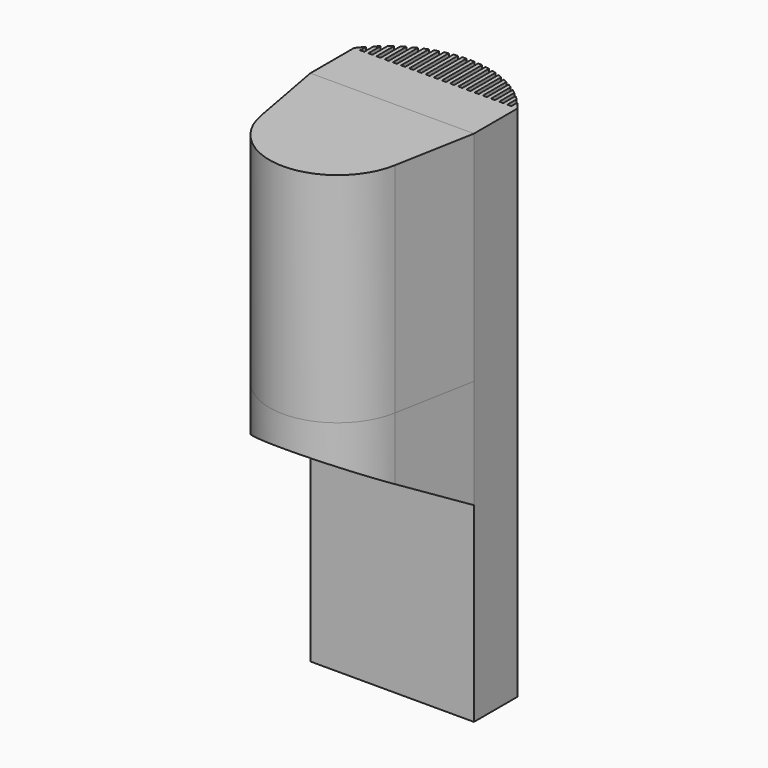
from build123d import *

# Parameters (mm, degrees)
F1_DEPTH = 482.6
F2_W     = 3.81
F2_H     = 38.1
F3_DEPTH = 482.6
F5_DEPTH = 304.8
F6_W     = 138.08032
F6_H     = 203.2
F7_DEPTH = 254
F9_DEPTH = 203.2


with BuildPart() as f1:
    # F0 (on Top) → F1 (new body)
    with BuildSketch(Plane.XY):
        with BuildLine():
            ThreePointArc((76.2, 50.8), (0, 88.9), (-76.2, 50.8))
            Line((-76.2, 50.8), (-76.2, 0))
            Line((-76.2, 0), (76.2, 0))
            Line((76.2, 0), (76.2, 50.8))
        make_face()
    extrude(amount=F1_DEPTH)

    # F2 (on face) → F3 (cut)
    with BuildSketch(Plane.XY.offset(482.6)):
        with Locations((0, 69.85)):
            Rectangle(F2_W, F2_H)
        with Locations((7.62, 69.85)):
            Rectangle(F2_W, F2_H)
        with Locations((15.24, 69.85)):
            Rectangle(F2_W, F2_H)
        with Locations((22.86, 69.85)):
            Rectangle(F2_W, F2_H)
        with Locations((30.48, 69.85)):
            Rectangle(F2_W, F2_H)
        with Locations((38.1, 69.85)):
            Rectangle(F2_W, F2_H)
        with Locations((45.72, 69.85)):
            Rectangle(F2_W, F2_H)
        with Locations((53.34, 69.85)):
            Rectangle(F2_W, F2_H)
        with Locations((60.96, 69.85)):
            Rectangle(F2_W, F2_H)
        with Locations((68.58, 69.85)):
            Rectangle(F2_W, F2_H)
        with Locations((-7.62, 69.85)):
            Rectangle(F2_W, F2_H)
        with Locations((-15.24, 69.85)):
            Rectangle(F2_W, F2_H)
        with Locations((-22.86, 69.85)):
            Rectangle(F2_W, F2_H)
        with Locations((-30.48, 69.85)):
            Rectangle(F2_W, F2_H)
        with Locations((-38.1, 69.85)):
            Rectangle(F2_W, F2_H)
        with Locations((-45.72, 69.85)):
            Rectangle(F2_W, F2_H)
        with Locations((-53.34, 69.85)):
            Rectangle(F2_W, F2_H)
        with Locations((-60.96, 69.85)):
            Rectangle(F2_W, F2_H)
        with Locations((-68.58, 69.85)):
            Rectangle(F2_W, F2_H)
    extrude(amount=-F3_DEPTH, mode=Mode.SUBTRACT)

    # F4 (on face) → F5 (join)
    with BuildSketch(Plane.XY.offset(482.6)):
        with BuildLine():
            ThreePointArc((0, 0), (-48.782051, -22.848291), (-62.459016, -74.95082))
            ThreePointArc((-62.459016, -74.95082), (0, -127), (62.459016, -74.95082))
            ThreePointArc((62.459016, -74.95082), (63.239219, -69.24902), (63.5, -63.5))
            ThreePointArc((63.5, -63.5), (44.901281, -18.598719), (0, 0))
        make_face()
        with BuildLine():
            Line((-76.2, 0), (-62.459016, -74.95082))
            ThreePointArc((-62.459016, -74.95082), (-48.782051, -22.848291), (0, 0))
            Line((0, 0), (-76.2, 0))
        make_face()
        with BuildLine():
            ThreePointArc((63.5, -63.5), (63.239219, -69.24902), (62.459016, -74.95082))
            Line((62.459016, -74.95082), (76.2, 0))
            Line((76.2, 0), (0, 0))
            ThreePointArc((0, 0), (44.901281, -18.598719), (63.5, -63.5))
        make_face()
    extrude(amount=-F5_DEPTH)

    # F6 (on face) → F7 (cut)
    with BuildSketch(Plane.YZ.offset(76.2)):
        Polygon((-138.08032, 177.8), (0, 177.8), (-138.08032, 257.52071), align=None)
        with Locations((-69.04016, 381)):
            Rectangle(F6_W, F6_H)
    extrude(amount=-F7_DEPTH, mode=Mode.SUBTRACT)


with BuildPart() as f9:
    # F8 (on face) → F9 (new body, through all)
    with BuildSketch(Plane.XY.offset(279.4)):
        with BuildLine():
            Line((76.2, 0), (-76.2, 0))
            Line((-76.2, 0), (-62.459016, -74.95082))
            ThreePointArc((-62.459016, -74.95082), (0, -127), (62.459016, -74.95082))
            Line((62.459016, -74.95082), (76.2, 0))
        make_face()
    extrude(amount=F9_DEPTH)


solid = Compound([f1.part, f9.part])
